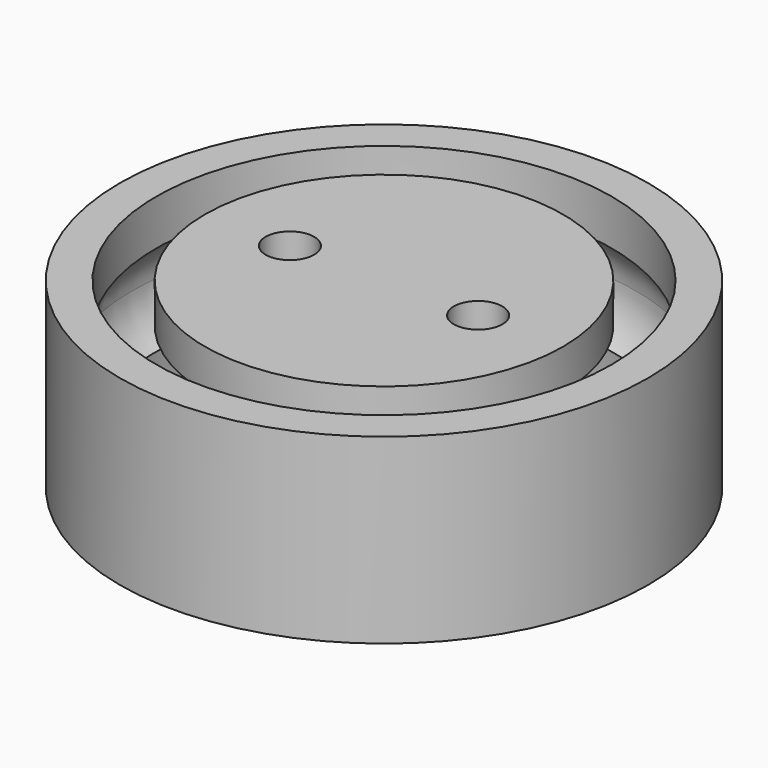
from build123d import *

# Parameters (mm, degrees)
F0_R      = 21.75
F0_R_2    = 18.75
F1_DEPTH  = 15
F0_R_3    = 14.75
F0_R_4    = 4
F9_DEPTH  = 7
F11_D     = 4
F10_R     = 3.75
F12_DEPTH = 10


with BuildPart() as f1:
    # F0 (on Top) → F1 (new body)
    with BuildSketch(Plane.XY):
        Circle(F0_R)
        Circle(F0_R_2, mode=Mode.SUBTRACT)
    extrude(amount=-F1_DEPTH)


with BuildPart() as f1b:
    # F0 (on Top) → F1, piece 2 (new body)
    with BuildSketch(Plane.XY):
        Circle(F0_R_3)
        Circle(F0_R_4, mode=Mode.SUBTRACT)
        Circle(F0_R_4)
    extrude(amount=-F1_DEPTH)


with BuildPart() as f6_tool:
    # F4 (on Right) → F6 (revolve)
    with BuildSketch(Plane.YZ):
        with BuildLine():
            Line((18.75, -11.2416573868), (18.75, -3.7583426132))
            ThreePointArc((18.75, -3.7583426132), (11.75, -7.5), (18.75, -11.2416573868))
        make_face()
        with BuildLine():
            ThreePointArc((18.75, -11.2416573868), (20.2186269666, -9.6213203436), (20.75, -7.5))
            ThreePointArc((20.75, -7.5), (20.2186269666, -5.3786796564), (18.75, -3.7583426132))
            Line((18.75, -3.7583426132), (18.75, -11.2416573868))
        make_face()
    revolve(axis=Axis((0, 0, 0), (0, 0, 1)))


with BuildPart() as f1_1:
    add(f1.part)

    # F6: cut by f6_tool
    add(f6_tool.part, mode=Mode.SUBTRACT)


with BuildPart() as f1b_1:
    add(f1b.part)

    # F6: cut by f6_tool
    add(f6_tool.part, mode=Mode.SUBTRACT)


with BuildPart() as f9_tool:
    # F8 (on face) → F9 (new body)
    with BuildSketch(Plane(origin=(0, 0, -15), x_dir=(1, 0, 0), z_dir=(0, 0, -1))):
        with BuildLine():
            ThreePointArc((-3.9960335364, 18.3192307692), (0, 18.75), (3.9960335364, 18.3192307692))
            ThreePointArc((3.9960335364, 18.3192307692), (0, 20.75), (-3.9960335364, 18.3192307692))
        make_face()
        with BuildLine():
            ThreePointArc((-3.9960335364, 18.3192307692), (-1.0648589311, 11.8778065623), (4.5, 16.25))
            ThreePointArc((4.5, 16.25), (4.3721934377, 17.3148589311), (3.9960335364, 18.3192307692))
            ThreePointArc((3.9960335364, 18.3192307692), (0, 18.75), (-3.9960335364, 18.3192307692))
        make_face()
    extrude(amount=-F9_DEPTH)


with BuildPart() as f1_2:
    add(f1_1.part)

    # F9: cut by f9_tool
    add(f9_tool.part, mode=Mode.SUBTRACT)


with BuildPart() as f1b_2:
    add(f1b_1.part)

    # F9: cut by f9_tool
    add(f9_tool.part, mode=Mode.SUBTRACT)

    # F11 (through all)
    with Locations(Plane(origin=(0, 0, -15), x_dir=(1, 0, 0), z_dir=(0, 0, -1))):
        with Locations((-7.75, 0), (7.75, 0)):
            Hole(F11_D / 2)

    # F10 (on face) → F12 (cut)
    with BuildSketch(Plane(origin=(0, 0, -15), x_dir=(1, 0, 0), z_dir=(0, 0, -1))):
        with Locations((-7.75, 0)):
            Circle(F10_R)
        with Locations((7.75, 0)):
            Circle(F10_R)
    extrude(amount=-F12_DEPTH, mode=Mode.SUBTRACT)


solid = Compound([f1_2.part, f1b_2.part])
